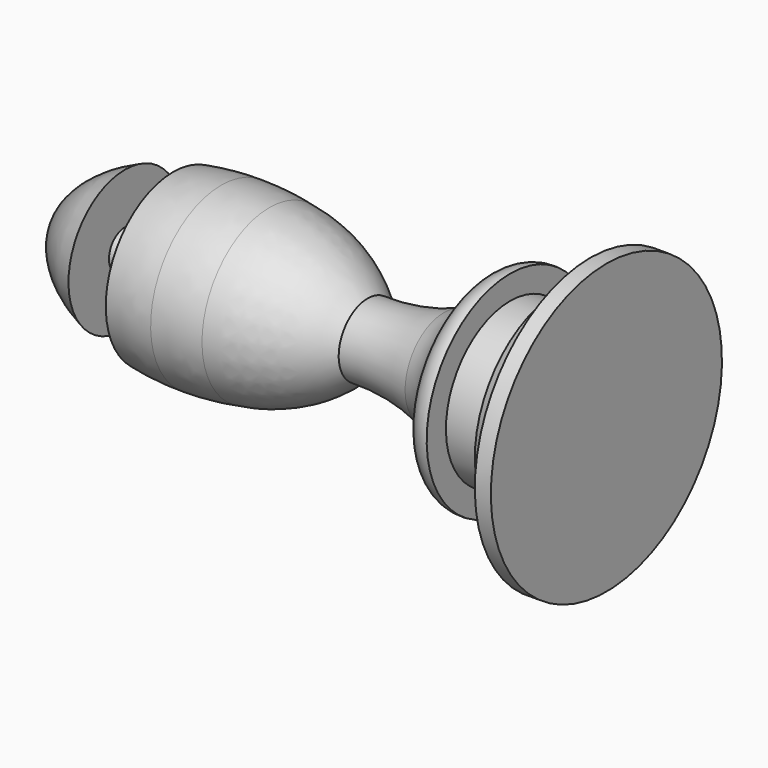
from build123d import *

# Parameters (mm, degrees)
F2_SCALE = 1.7


with BuildPart() as f1:
    # F0 (on Front) → F1 (revolve)
    with BuildSketch(Plane.XZ):
        with BuildLine():
            Line((-7.5, 0), (0, 0))
            Line((0, 0), (0, 9))
            Line((0, 9), (-1, 9))
            add(Edge.make_bspline(
                [(-1, 9), (-1, 7.0851700753), (-1.8672904698, 7.1124176979), (-3, 6.5)],
                knots=[0, 0, 0, 0, 3.2015621187, 3.2015621187, 3.2015621187, 3.2015621187], degree=3))
            Line((-3, 6.5), (-3, 5))
            Line((-3, 5), (-6, 5))
            Line((-6, 5), (-6, 6.5))
            ThreePointArc((-6, 6.5), (-6.9298642244, 6.2697963366), (-7.5, 5.5))
            Line((-7.5, 5.5), (-7.5, 0))
        make_face()
        with BuildLine():
            Line((-14, 0), (-7.5, 0))
            Line((-7.5, 0), (-7.5, 5.5))
            ThreePointArc((-7.5, 5.5), (-8.5550561199, 3.9901729053), (-10.123805809, 3.0249031581))
            ThreePointArc((-10.123805809, 3.0249031581), (-12.4654788199, 2.4169570785), (-14.8793743722, 2.2552808955))
            add(Edge.make_bspline(
                [(-14, 0), (-14, 1.1795016227), (-14.8793743722, 2.2552808955)],
                knots=[3.1415926536, 3.1415926536, 3.1415926536, 3.5641027111, 3.5641027111, 3.5641027111], degree=2, weights=[1, 0.9777685214, 1]))
        make_face()
        with BuildLine():
            Line((-24, 0), (-14, 0))
            add(Edge.make_bspline(
                [(-14, 0), (-14, 1.1795016227), (-14.8793743722, 2.2552808955)],
                knots=[3.1415926536, 3.1415926536, 3.1415926536, 3.5641027111, 3.5641027111, 3.5641027111], degree=2, weights=[1, 0.9777685214, 1]))
            ThreePointArc((-14.8793743722, 2.2552808955), (-17.6934825425, 4.2561819466), (-21.0012497303, 5.2468817204))
            ThreePointArc((-21.0012497303, 5.2468817204), (-22.4952930482, 5.4366081179), (-24, 5.5))
            Line((-24, 5.5), (-24, 0))
        make_face()
        with BuildLine():
            Line((-34, 0), (-24, 0))
            Line((-24, 0), (-24, 5.5))
            ThreePointArc((-24, 5.5), (-25.5047069518, 5.4366081179), (-26.9987502697, 5.2468817204))
            Line((-26.9987502697, 5.2468817204), (-26.9987502697, 1.2468817204))
            Line((-26.9987502697, 1.2468817204), (-29.9987502697, 1.2468817204))
            Line((-29.9987502697, 1.2468817204), (-29.9987502697, 4.4005154299))
            add(Edge.make_bspline(
                [(-29.9987502697, 4.4005154299), (-34, 2.7504510272), (-34, 0)],
                knots=[5.3557963744, 5.3557963744, 5.3557963744, 6.2831853072, 6.2831853072, 6.2831853072], degree=2, weights=[1, 0.8944062348, 1]))
        make_face()
    revolve(axis=Axis((-17, 0, 0), (-1, 0, 0)))


with BuildPart() as f1_1:
    # F2: moved
    add(f1.part.scale(F2_SCALE))


solid = f1_1.part
